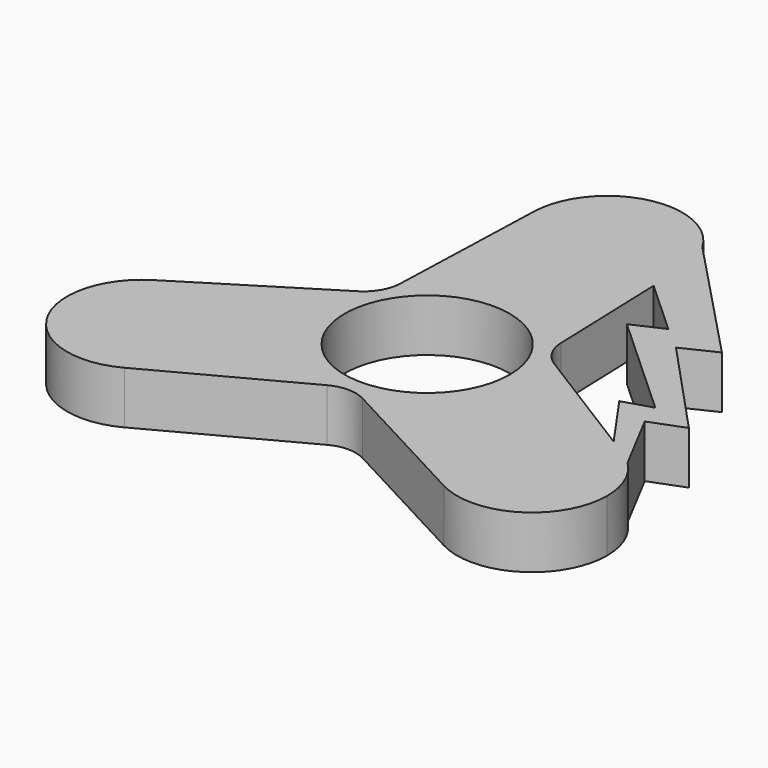
from build123d import *

# Parameters (mm, degrees)
F0_R     = 11
F1_DEPTH = 7


with BuildPart() as f1:
    # F0 (on Top) → F1 (new body)
    with BuildSketch(Plane.XY):
        with BuildLine():
            ThreePointArc((9.994443, 30.333333), (9.998611, 30.16669), (10, 30))
            ThreePointArc((10, 30), (-0.16669, 20.001389), (-9.994443, 30.333333))
            Line((-9.994443, 30.333333), (-10.709236, 8.901461))
            ThreePointArc((-10.709236, 8.901461), (-11.37633, 6.568127), (-13.063509, 4.82374))
            Line((-13.063509, 4.82374), (-31.266659, -6.511225))
            ThreePointArc((-31.266659, -6.511225), (-21.125814, -6.257604), (-15.980762, -15))
            ThreePointArc((-15.980762, -15), (-17.405056, -20.143663), (-21.272216, -23.822108))
            Line((-21.272216, -23.822108), (-2.354273, -13.725201))
            ThreePointArc((-2.354273, -13.725201), (0, -13.136255), (2.354273, -13.725201))
            Line((2.354273, -13.725201), (21.272216, -23.822108))
            ThreePointArc((21.272216, -23.822108), (17.320508, -10), (31.266659, -6.511225))
            Line((31.266659, -6.511225), (28.860169, -5.012722))
            Line((28.860169, -5.012722), (13.063509, 4.82374))
            ThreePointArc((13.063509, 4.82374), (11.37633, 6.568127), (10.709236, 8.901461))
            Line((10.709236, 8.901461), (10.17232, 25))
            Line((10.17232, 25), (9.994443, 30.333333))
        make_face()
        Circle(F0_R, mode=Mode.SUBTRACT)
        with BuildLine():
            ThreePointArc((-9.994443, 30.333333), (-0.16669, 20.001389), (10, 30))
            ThreePointArc((10, 30), (9.998611, 30.16669), (9.994443, 30.333333))
            ThreePointArc((9.994443, 30.333333), (9.614774, 32.748841), (8.660254, 35))
            ThreePointArc((8.660254, 35), (-2.426821, 39.701059), (-9.994443, 30.333333))
        make_face()
        with BuildLine():
            ThreePointArc((-15.980762, -15), (-21.125814, -6.257604), (-31.266659, -6.511225))
            ThreePointArc((-31.266659, -6.511225), (-34.641016, -20), (-21.272216, -23.822108))
            ThreePointArc((-21.272216, -23.822108), (-17.405056, -20.143663), (-15.980762, -15))
        make_face()
        with BuildLine():
            ThreePointArc((32.987055, -7.864745), (32.164004, -7.140769), (31.266659, -6.511225))
            ThreePointArc((31.266659, -6.511225), (17.320508, -10), (21.272216, -23.822108))
            ThreePointArc((21.272216, -23.822108), (31.124425, -23.575706), (35.980762, -15))
            ThreePointArc((35.980762, -15), (35.202013, -11.131081), (32.987055, -7.864745))
        make_face()
        with BuildLine():
            ThreePointArc((8.660254, 35), (9.614774, 32.748841), (9.994443, 30.333333))
            Line((9.994443, 30.333333), (10.17232, 25))
            Line((10.17232, 25), (17.468503, 18.338699))
            Line((17.468503, 18.338699), (13.411126, 16.494436))
            Line((13.411126, 16.494436), (27.48383, 3.646278))
            Line((27.48383, 3.646278), (23.627748, 2.462574))
            Line((23.627748, 2.462574), (28.860169, -5.012722))
            Line((28.860169, -5.012722), (31.266659, -6.511225))
            ThreePointArc((31.266659, -6.511225), (32.164004, -7.140769), (32.987055, -7.864745))
            Line((32.987055, -7.864745), (28.558979, 0.540369))
            Line((28.558979, 0.540369), (33.061294, 2.263841))
            Line((33.061294, 2.263841), (20.695962, 15.572305))
            Line((20.695962, 15.572305), (25.122192, 17.693207))
            Line((25.122192, 17.693207), (8.660254, 35))
        make_face()
    extrude(amount=F1_DEPTH)


solid = f1.part
